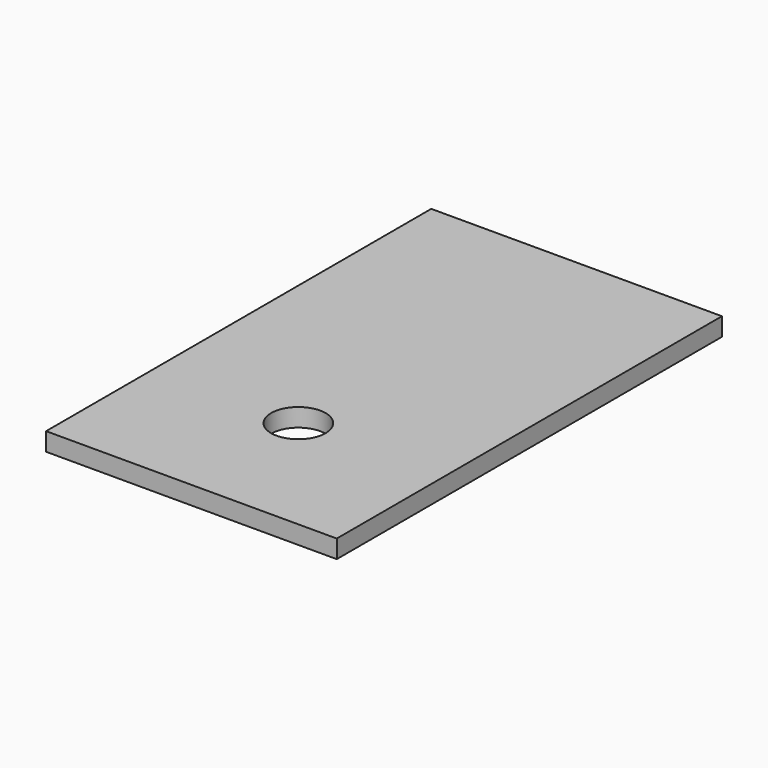
from build123d import *

# Parameters (mm, degrees)
F0_W     = 50.8
F0_H     = 84.1375
F1_DEPTH = 3.175
F3_D     = 9.525


with BuildPart() as f1:
    # F0 (on Top) → F1 (new body)
    with BuildSketch(Plane.XY):
        Rectangle(F0_W, F0_H)
        Rectangle(F0_W, F0_H)
    extrude(amount=F1_DEPTH)

    # F3 (through all)
    with Locations(Plane.XY.offset(3.175)):
        with Locations((0, -18.707374)):
            Hole(F3_D / 2)


solid = f1.part
